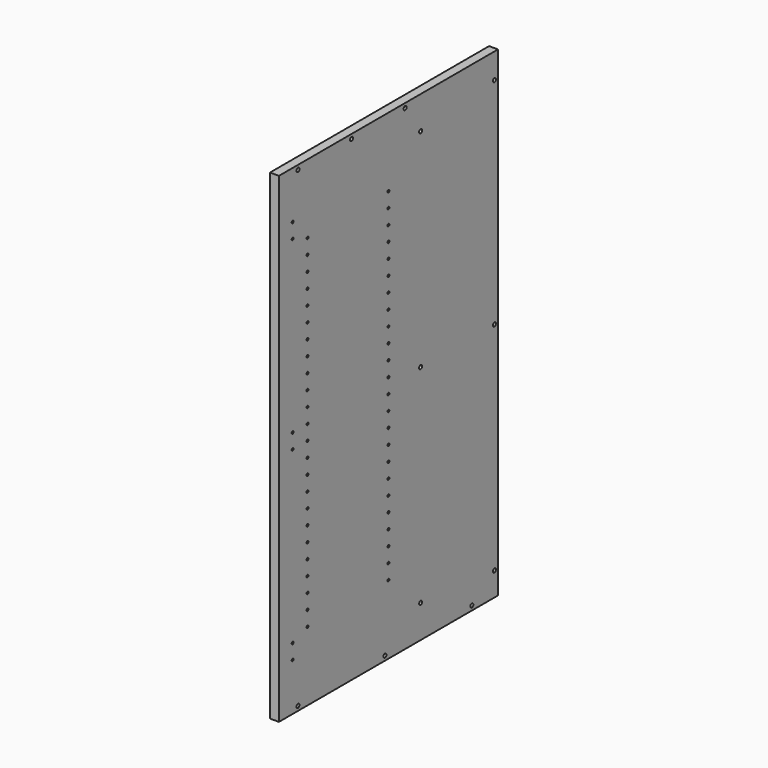
from build123d import *

# Parameters (mm, degrees)
F0_W     = 584.2
F0_H     = 1025.525
F1_DEPTH = 19.05
F3_D     = 8.001
F3_DEPTH = 14.224
F3_TIP   = 2.4037429064
F5_D     = 5.0038
F5_DEPTH = 14.224
F5_TIP   = 1.5032931827


with BuildPart() as f1:
    # F0 (on Right) → F1 (new body)
    with BuildSketch(Plane.YZ):
        Rectangle(F0_W, F0_H)
    extrude(amount=F1_DEPTH)

    # F3
    with Locations(Plane.YZ.offset(19.05)):
        with Locations((-241.3, 503.2375), (-98.425, 503.2375), (44.45, 503.2375), (85.725, 442.9125), (282.575, 458.7875), (282.575, 0), (85.725, 0), (282.575, -461.9625), (222.25, -503.2375), (85.725, -442.9125), (-9.525, -503.2375), (-241.3, -503.2375)):
            Hole(F3_D / 2, depth=F3_DEPTH)
            with Locations((0, 0, -(F3_DEPTH + F3_TIP / 2))):  # 118° drill point
                Cone(0, F3_D / 2, F3_TIP, mode=Mode.SUBTRACT)

    # F5
    with Locations(Plane.YZ.offset(19.05)):
        with Locations((-255.524, 411.1625), (-255.524, 379.4125), (-255.524, 15.875), (-255.524, -15.875), (-255.524, -379.4125), (-255.524, -411.1625), (-215.9, 365.1885), (-215.9, 301.6885), (-215.9, 269.9385), (-215.9, 206.4385), (-215.9, 174.6885), (-215.9, 111.1885), (-215.9, 79.4385), (-215.9, 47.6885), (-215.9, 15.9385), (-215.9, -15.8115), (-215.9, -47.5615), (-215.9, -79.3115), (-215.9, -111.0615), (-215.9, -142.8115), (-215.9, -174.5615), (-215.9, -206.3115), (-215.9, -238.0615), (-215.9, -269.8115), (-215.9, -333.3115), (-215.9, -365.0615), (-215.9, -301.5615), (0, -365.0615), (0, -301.5615), (0, -269.8115), (0, -206.3115), (0, -174.5615), (0, -142.8115), (0, -111.0615), (0, -79.3115), (0, -15.8115), (0, 15.9385), (0, 79.4385), (0, 111.1885), (0, 174.6885), (0, 206.4385), (0, 269.9385), (0, 301.6885), (0, 365.1885), (-215.9, 333.4385), (0, 333.4385), (0, 238.1885), (-215.9, 238.1885), (-215.9, 142.9385), (0, 142.9385), (0, 47.6885), (0, -47.5615), (0, -238.0615), (0, -333.3115)):
            Hole(F5_D / 2, depth=F5_DEPTH)
            with Locations((0, 0, -(F5_DEPTH + F5_TIP / 2))):  # 118° drill point
                Cone(0, F5_D / 2, F5_TIP, mode=Mode.SUBTRACT)


solid = f1.part
